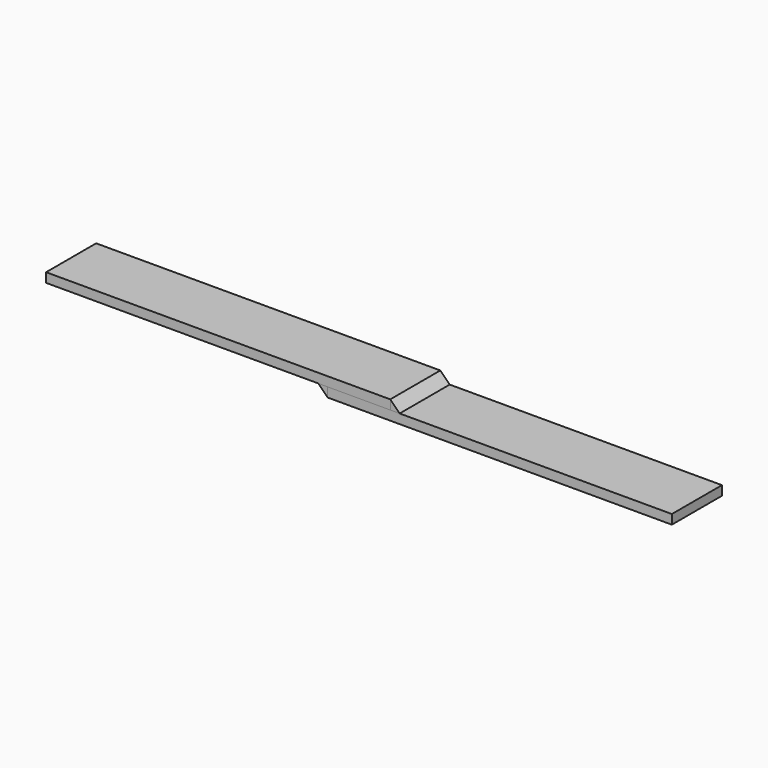
from build123d import *

# Parameters (mm, degrees)
F2_DEPTH = 100
F3_DEPTH = 100
F4_DEPTH = 100
F5_DEPTH = 100


with BuildPart() as f2:
    # F1 (on Front) → F2 (new body)
    with BuildSketch(Plane.XZ):
        Polygon((0, 15), (0, 0), (435, 0), (450, 0), (550, 0), (550, 15), align=None)
    extrude(amount=F2_DEPTH)


with BuildPart() as f3:
    # F1 (on Front) → F3 (new body)
    with BuildSketch(Plane.XZ):
        Polygon((550, 0), (450, 0), (450, -15), (1000, -15), (1000, 0), (565, 0), align=None)
    extrude(amount=F3_DEPTH)


with BuildPart() as f4:
    # F1 (on Front) → F4 (new body)
    with BuildSketch(Plane.XZ):
        Polygon((565, 0), (550, 15), (550, 0), align=None)
    extrude(amount=F4_DEPTH)


with BuildPart() as f5:
    # F1 (on Front) → F5 (new body)
    with BuildSketch(Plane.XZ):
        Polygon((450, 0), (435, 0), (450, -15), align=None)
    extrude(amount=F5_DEPTH)


solid = Compound([f2.part, f3.part, f4.part, f5.part])
